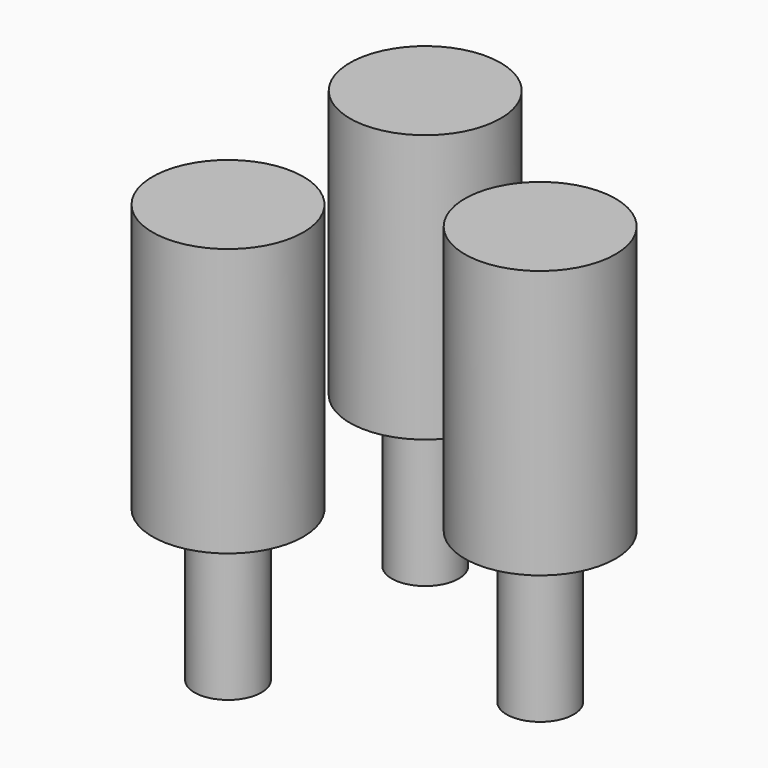
from build123d import *

# Parameters (mm, degrees)
CYLINDER157_R     = 2.25
CYLINDER157_DEPTH = 8
CYLINDER156_R     = 1
CYLINDER156_DEPTH = 5
CYLINDER147_R     = 1
CYLINDER147_DEPTH = 1
ARRAY_COUNT       = 3


with BuildPart() as sealsubtraction:
    # Cylinder157 → Cylinder157 (new body)
    with BuildSketch(Plane.XY.offset(2.5)):
        Circle(CYLINDER157_R)
    extrude(amount=CYLINDER157_DEPTH)


with BuildPart() as bottomwireoutlet:
    # Cylinder156 → Cylinder156 (new body)
    with BuildSketch(Plane.XY.offset(-2)):
        Circle(CYLINDER156_R)
    extrude(amount=CYLINDER156_DEPTH)


with BuildPart() as sealarray:
    # Cylinder147 → Cylinder147 (new body)
    with BuildSketch(Plane.XY.offset(4.5)):
        Circle(CYLINDER147_R)
    extrude(amount=CYLINDER147_DEPTH)

    # Fusion: union SealSubtraction, BottomWireOutlet
    add(sealsubtraction.part)
    add(bottomwireoutlet.part)


with BuildPart() as sealarray_1:
    # Fusion placement: moved
    add(sealarray.part.moved(Location((4.25, 0, 0))))


with BuildPart() as array_copy1:
    # Array: instance of SealArray
    add(sealarray_1.part.rotate(Axis((0, 0, 0), (0, 0, 1)), 1 * 360 / ARRAY_COUNT))


with BuildPart() as array_copy2:
    # Array: instance of SealArray
    add(sealarray_1.part.rotate(Axis((0, 0, 0), (0, 0, 1)), 2 * 360 / ARRAY_COUNT))


solid = Compound([sealarray_1.part, array_copy1.part, array_copy2.part])
